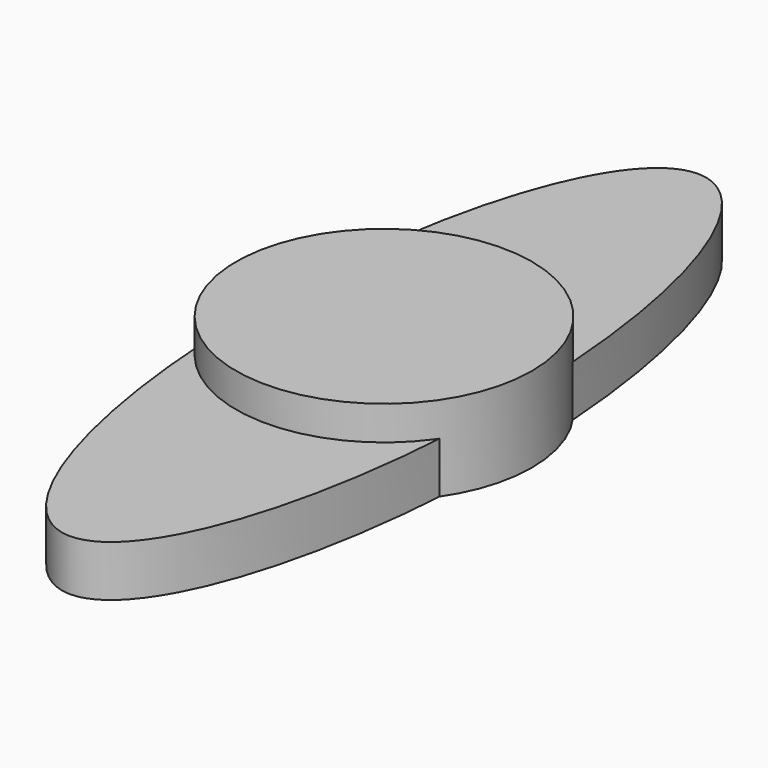
from build123d import *

# Parameters (mm, degrees)
F0_R     = 22.077003
F1_DEPTH = 12.7
F3_DEPTH = 7.62
F5_DEPTH = 7.62


with BuildPart() as f1:
    # F0 (on Top) → F1 (new body)
    with BuildSketch(Plane.XY):
        Circle(F0_R)
    extrude(amount=F1_DEPTH)


with BuildPart() as f3:
    # F2 (on Top) → F3 (new body)
    with BuildSketch(Plane.XY):
        with BuildLine():
            add(Edge.make_bspline(
                [(59.156366, 0), (59.156366, 30.912905), (-29.578183, 15.456453), (-118.312731, 0), (-29.578183, -15.456453), (59.156366, -30.912905), (59.156366, 0)],
                knots=[0, 0, 0, 2.094395, 2.094395, 4.18879, 4.18879, 6.283185, 6.283185, 6.283185], degree=2, weights=[1, 0.5, 1, 0.5, 1, 0.5, 1]))
        make_face()
    extrude(amount=F3_DEPTH)


with BuildPart() as f5:
    # F4 (on Top) → F5 (new body)
    with BuildSketch(Plane.XY):
        with BuildLine():
            add(Edge.make_bspline(
                [(0, -58.554262), (32.352183, -58.554262), (16.176091, 29.277131), (0, 117.108524), (-16.176091, 29.277131), (-32.352183, -58.554262), (0, -58.554262)],
                knots=[0, 0, 0, 2.094395, 2.094395, 4.18879, 4.18879, 6.283185, 6.283185, 6.283185], degree=2, weights=[1, 0.5, 1, 0.5, 1, 0.5, 1]))
        make_face()
    extrude(amount=F5_DEPTH)


solid = Compound([f1.part, f5.part])
